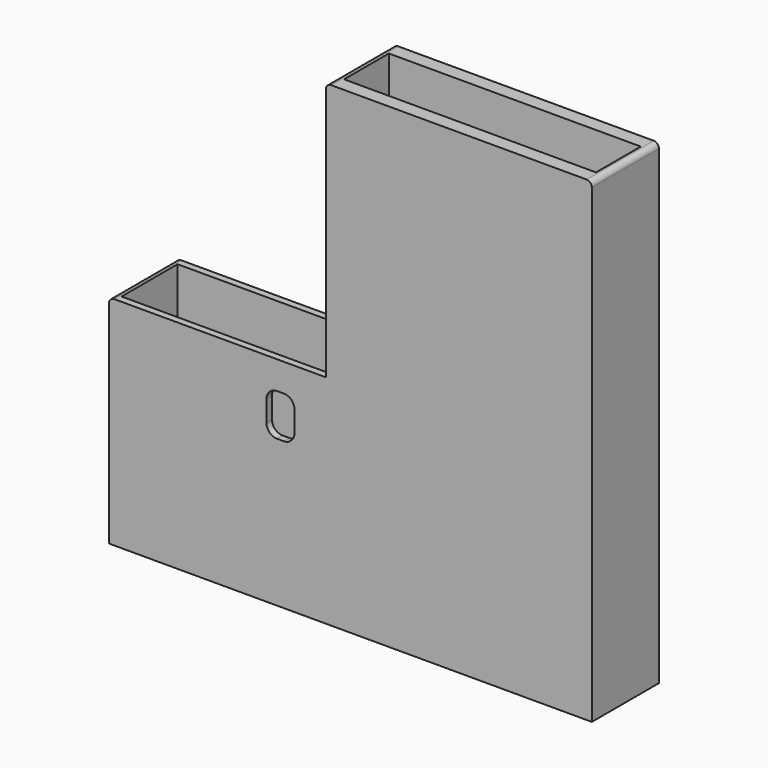
from build123d import *

# Parameters (mm, degrees)
SKETCH_W          = 62
SKETCH_H          = 24
PAD_DEPTH         = 62
SKETCH001_W       = 58
SKETCH001_H       = 20
POCKET_DEPTH      = 60
SKETCH002_W       = 8
SKETCH002_H       = 12
POCKET001_DEPTH   = 2
POCKET001_FACE5_W = 24
POCKET001_FACE5_H = 62
PAD001_DEPTH      = 74
PAD001_FACE12_W   = 24
PAD001_FACE12_H   = 74
PAD002_DEPTH      = 74
PAD002_FACE18_W   = 24
PAD002_FACE18_H   = 62
PAD003_DEPTH      = 2
PAD003_FACE24_W   = 24
PAD003_FACE24_H   = 74
PAD004_DEPTH      = 2
SKETCH003_W       = 72
SKETCH003_H       = 16
POCKET002_DEPTH   = 135
FILLET_R          = 3
FILLET001_R       = 3
FILLET002_R       = 3
FILLET003_R       = 3
FILLET004_R       = 1.5
FILLET005_R       = 1.5
FILLET006_R       = 1.5


with BuildPart() as part:
    # Sketch → Pad (new body)
    with BuildSketch(Plane.XY):
        with Locations((31, 12)):
            Rectangle(SKETCH_W, SKETCH_H)
    extrude(amount=PAD_DEPTH)

    # Sketch001 (on Face6 of Pad) → Pocket (cut)
    with BuildSketch(Plane.XY.offset(62)):
        with Locations((31, 12)):
            Rectangle(SKETCH001_W, SKETCH001_H)
    extrude(amount=-POCKET_DEPTH, mode=Mode.SUBTRACT)

    # Sketch002 (on Face1 of Pocket) → Pocket001 (cut)
    with BuildSketch(Plane.XZ):
        with Locations((49, 48)):
            Rectangle(SKETCH002_W, SKETCH002_H)
    extrude(amount=-POCKET001_DEPTH, mode=Mode.SUBTRACT)

    # Pocket001 Face5 → Pad001 (add)
    with BuildSketch(Plane(origin=(62, 12, 31), x_dir=(0, -1, 0), z_dir=(1, 0, 0))):
        Rectangle(POCKET001_FACE5_W, POCKET001_FACE5_H)
    extrude(amount=PAD001_DEPTH)

    # Pad001 Face12 → Pad002 (add)
    with BuildSketch(Plane(origin=(99, 12, 62), x_dir=(0, 1, 0), z_dir=(0, 0, 1))):
        Rectangle(PAD001_FACE12_W, PAD001_FACE12_H)
    extrude(amount=PAD002_DEPTH)

    # Pad002 Face18 → Pad003 (add)
    with BuildSketch(Plane(origin=(136, 12, 31), x_dir=(0, -1, 0), z_dir=(1, 0, 0))):
        Rectangle(PAD002_FACE18_W, PAD002_FACE18_H)
    extrude(amount=PAD003_DEPTH)

    # Pad003 Face24 → Pad004 (add)
    with BuildSketch(Plane(origin=(136, 12, 99), x_dir=(0, -1, 0), z_dir=(1, 0, 0))):
        Rectangle(PAD003_FACE24_W, PAD003_FACE24_H)
    extrude(amount=PAD004_DEPTH)

    # Sketch003 (on Face21 of Pad002) → Pocket002 (cut)
    with BuildSketch(Plane.XY.offset(136)):
        with Locations((100, 12)):
            Rectangle(SKETCH003_W, SKETCH003_H)
    extrude(amount=-POCKET002_DEPTH, mode=Mode.SUBTRACT)

    # Fillet
    fillet_edges = [part.edges().sort_by_distance(p)[0] for p in [
        (45, 1, 42),
    ]]
    fillet(fillet_edges, radius=FILLET_R)

    # Fillet001
    fillet001_edges = [part.edges().sort_by_distance(p)[0] for p in [
        (53, 1, 42),
    ]]
    fillet(fillet001_edges, radius=FILLET001_R)

    # Fillet002
    fillet002_edges = [part.edges().sort_by_distance(p)[0] for p in [
        (53, 1, 54),
    ]]
    fillet(fillet002_edges, radius=FILLET002_R)

    # Fillet003
    fillet003_edges = [part.edges().sort_by_distance(p)[0] for p in [
        (45, 1, 54),
    ]]
    fillet(fillet003_edges, radius=FILLET003_R)

    # Fillet004
    fillet004_edges = [part.edges().sort_by_distance(p)[0] for p in [
        (62, 12, 136),
    ]]
    fillet(fillet004_edges, radius=FILLET004_R)

    # Fillet005
    fillet005_edges = [part.edges().sort_by_distance(p)[0] for p in [
        (138, 12, 136),
    ]]
    fillet(fillet005_edges, radius=FILLET005_R)

    # Fillet006
    fillet006_edges = [part.edges().sort_by_distance(p)[0] for p in [
        (0, 12, 62),
    ]]
    fillet(fillet006_edges, radius=FILLET006_R)


solid = part.part
